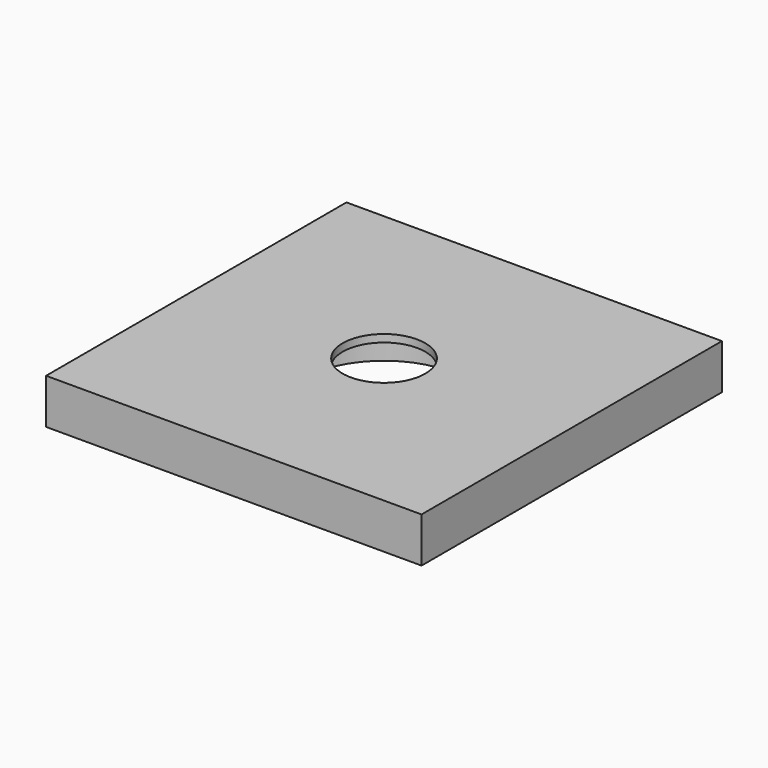
from build123d import *

# Parameters (mm, degrees)
SKETCH_W     = 50
SKETCH_H     = 50
SKETCH_R     = 11
PAD_DEPTH    = 5
SKETCH001_W  = 50
SKETCH001_H  = 50
SKETCH001_R  = 5.5
PAD001_DEPTH = 1


with BuildPart() as part:
    # Sketch → Pad (new body)
    with BuildSketch(Plane.XY):
        with Locations((25, 25)):
            Rectangle(SKETCH_W, SKETCH_H)
        with Locations((25, 25)):
            Circle(SKETCH_R, mode=Mode.SUBTRACT)
    extrude(amount=PAD_DEPTH)

    # Sketch001 → Pad001 (new body)
    with BuildSketch(Plane.XY.offset(5)):
        with Locations((25, 25)):
            Rectangle(SKETCH001_W, SKETCH001_H)
        with Locations((25, 25)):
            Circle(SKETCH001_R, mode=Mode.SUBTRACT)
    extrude(amount=PAD001_DEPTH)


solid = part.part
